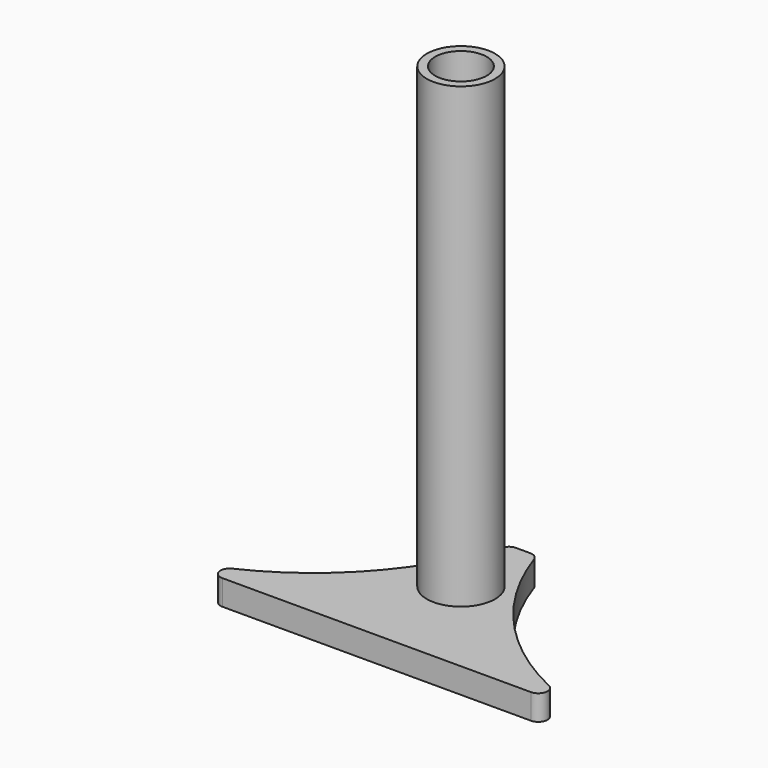
from build123d import *

# Parameters (mm, degrees)
SKETCH_R      = 3.5
PAD_DEPTH     = 4
PAD002_DEPTH  = 1.5
FILLET_R      = 2
SKETCH001_R   = 7.45
SKETCH001_R_2 = 5.625
PAD001_DEPTH  = 100


with BuildPart() as body:
    # Sketch → Pad (new body)
    with BuildSketch(Plane.XY):
        with BuildLine():
            Line((90, 0), (0, 0))
            ThreePointArc((0, 0), (26.154356, 14.587926), (42, 40))
            Line((42, 40), (48, 40))
            ThreePointArc((48, 40), (63.845644, 14.587926), (90, 0))
        make_face()
        with Locations((39.5, 24)):
            Circle(SKETCH_R, mode=Mode.SUBTRACT)
        with Locations((50.5, 24)):
            Circle(SKETCH_R, mode=Mode.SUBTRACT)
        with Locations((20, 4)):
            Circle(SKETCH_R, mode=Mode.SUBTRACT)
        with Locations((70, 4)):
            Circle(SKETCH_R, mode=Mode.SUBTRACT)
    extrude(amount=PAD_DEPTH)

    # Sketch002 → Pad002 (join)
    with BuildSketch(Plane.XY.offset(4)):
        with BuildLine():
            Line((90, 0), (0, 0))
            ThreePointArc((0, 0), (26.154356, 14.587926), (42, 40))
            Line((42, 40), (48, 40))
            ThreePointArc((48, 40), (63.845644, 14.587926), (90, 0))
        make_face()
    extrude(amount=PAD002_DEPTH)

    # Fillet
    fillet_edges = [body.edges().sort_by_distance(p)[0] for p in [
        (0, 0, 2),
        (0, 0, 4.75),
        (90, 0, 4.75),
        (90, 0, 2),
        (48, 40, 4.75),
        (48, 40, 2),
        (42, 40, 4.75),
        (42, 40, 2),
    ]]
    fillet(fillet_edges, radius=FILLET_R)


with BuildPart() as body001:
    # Sketch001 → Pad001 (new body)
    with BuildSketch(Plane.XY.offset(5.5)):
        with Locations((45, 23)):
            Circle(SKETCH001_R)
        with Locations((45, 23)):
            Circle(SKETCH001_R_2, mode=Mode.SUBTRACT)
    extrude(amount=PAD001_DEPTH)


solid = Compound([body.part, body001.part])
